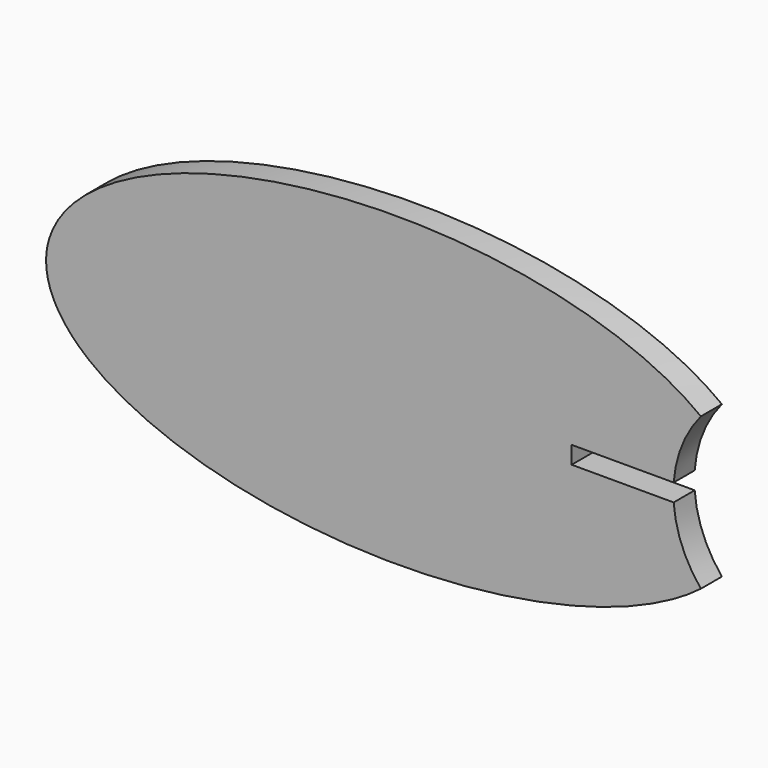
from build123d import *

# Parameters (mm, degrees)
F1_DEPTH = 3
F2_R     = 13.5
F3_DEPTH = 25
F4_W     = 20
F4_H     = 1
F5_DEPTH = 25


with BuildPart() as f1:
    # F0 (on Front) → F1 (new body)
    with BuildSketch(Plane.XZ):
        with BuildLine():
            add(Edge.make_bspline(
                [(-40, 0), (-40, -30.3108891325), (20, -15.1554445662), (80, 0), (20, 15.1554445662), (-40, 30.3108891325), (-40, 0)],
                knots=[0, 0, 0, 2.0943951024, 2.0943951024, 4.1887902048, 4.1887902048, 6.2831853072, 6.2831853072, 6.2831853072], degree=2, weights=[1, 0.5, 1, 0.5, 1, 0.5, 1]))
        make_face()
    extrude(amount=F1_DEPTH)

    # F2 (on Front) → F3 (cut)
    with BuildSketch(Plane.XZ):
        with Locations((45.1087198094, 0)):
            Circle(F2_R)
    extrude(amount=F3_DEPTH, mode=Mode.SUBTRACT)

    # F4 (on Front) → F5 (cut)
    with BuildSketch(Plane.XZ):
        with Locations((30, 0.5)):
            Rectangle(F4_W, F4_H)
        with Locations((30, -0.5)):
            Rectangle(F4_W, F4_H)
    extrude(amount=F5_DEPTH, mode=Mode.SUBTRACT)


solid = f1.part
